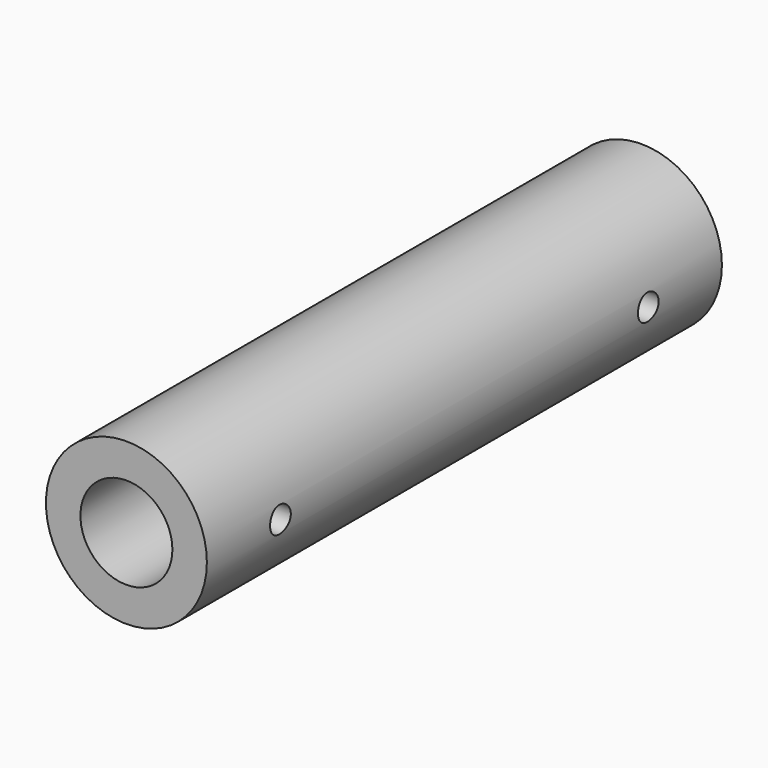
from build123d import *

# Parameters (mm, degrees)
F0_R     = 11.1125
F0_R_2   = 6.35
F1_DEPTH = 44.45
F3_R     = 1.7907
F4_DEPTH = 6.02021863


with BuildPart() as f1:
    # F0 (on Front) → F1 (new body, symmetric)
    with BuildSketch(Plane.XZ):
        Circle(F0_R)
        Circle(F0_R_2, mode=Mode.SUBTRACT)
    extrude(amount=F1_DEPTH, both=True)

    # F3 (on offset) → F4 (cut, up to face)
    with BuildSketch(Plane.YZ.offset(11.1125)):
        with Locations((-31.75, 0)):
            Circle(F3_R)
        with Locations((31.75, 0)):
            Circle(F3_R)
    extrude(amount=-F4_DEPTH, mode=Mode.SUBTRACT)


solid = f1.part
